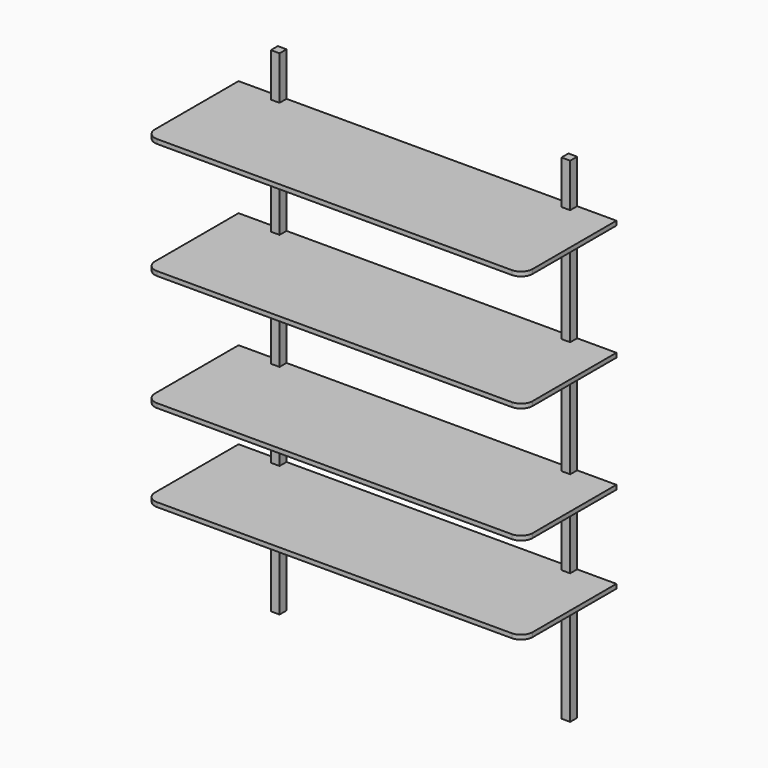
from build123d import *

# Parameters (mm, degrees)
F7_W      = 30
F7_H      = 30
F8_DEPTH  = 1700
F15_DEPTH = 15
F17_DEPTH = 15
F19_DEPTH = 15
F21_DEPTH = 15


with BuildPart() as f8:
    # F7 (on Top) → F8 (new body)
    with BuildSketch(Plane.XY):
        with Locations((-500, -15)):
            Rectangle(F7_W, F7_H)
    extrude(amount=F8_DEPTH)



with BuildPart() as f8b:
    # F7 (on Top) → F8, piece 2 (new body)
    with BuildSketch(Plane.XY):
        with Locations((500, -15)):
            Rectangle(F7_W, F7_H)
    extrude(amount=F8_DEPTH)


with BuildPart() as f8_1:
    add(f8.part)

    add(f8b.part)  # F15 merges F8b
    # F14 (on offset) → F15 (join)
    with BuildSketch(Plane.XY.offset(450)):
        with BuildLine():
            Line((485, 0), (0, 0))
            Line((0, 0), (-485, 0))
            Line((-485, 0), (-485, -30))
            Line((-485, -30), (-515, -30))
            Line((-515, -30), (-515, 0))
            Line((-515, 0), (-650, 0))
            Line((-650, 0), (-650, -360))
            ThreePointArc((-650, -360), (-638.2842712475, -388.2842712475), (-610, -400))
            Line((-610, -400), (0, -400))
            Line((0, -400), (610, -400))
            ThreePointArc((610, -400), (638.2842712475, -388.2842712475), (650, -360))
            Line((650, -360), (650, 0))
            Line((650, 0), (515, 0))
            Line((515, 0), (515, -30))
            Line((515, -30), (485, -30))
            Line((485, -30), (485, 0))
        make_face()
    extrude(amount=-F15_DEPTH)

    # F16 (on offset) → F17 (join)
    with BuildSketch(Plane.XY.offset(750)):
        with BuildLine():
            Line((0, -400), (610, -400))
            ThreePointArc((610, -400), (638.2842712475, -388.2842712475), (650, -360))
            Line((650, -360), (650, 0))
            Line((650, 0), (515, 0))
            Line((515, 0), (515, -30))
            Line((515, -30), (485, -30))
            Line((485, -30), (485, 0))
            Line((485, 0), (0, 0))
            Line((0, 0), (-485, 0))
            Line((-485, 0), (-485, -30))
            Line((-485, -30), (-515, -30))
            Line((-515, -30), (-515, 0))
            Line((-515, 0), (-650, 0))
            Line((-650, 0), (-650, -360))
            ThreePointArc((-650, -360), (-638.2842712475, -388.2842712475), (-610, -400))
            Line((-610, -400), (0, -400))
        make_face()
    extrude(amount=-F17_DEPTH)

    # F18 (on offset) → F19 (join)
    with BuildSketch(Plane.XY.offset(1150)):
        with BuildLine():
            Line((0, -400), (610, -400))
            ThreePointArc((610, -400), (638.2842712475, -388.2842712475), (650, -360))
            Line((650, -360), (650, 0))
            Line((650, 0), (515, 0))
            Line((515, 0), (515, -30))
            Line((515, -30), (485, -30))
            Line((485, -30), (485, 0))
            Line((485, 0), (0, 0))
            Line((0, 0), (-485, 0))
            Line((-485, 0), (-485, -30))
            Line((-485, -30), (-515, -30))
            Line((-515, -30), (-515, 0))
            Line((-515, 0), (-650, 0))
            Line((-650, 0), (-650, -360))
            ThreePointArc((-650, -360), (-638.2842712475, -388.2842712475), (-610, -400))
            Line((-610, -400), (0, -400))
        make_face()
    extrude(amount=-F19_DEPTH)

    # F20 (on offset) → F21 (join)
    with BuildSketch(Plane.XY.offset(1550)):
        with BuildLine():
            Line((0, -400), (610, -400))
            ThreePointArc((610, -400), (638.2842712475, -388.2842712475), (650, -360))
            Line((650, -360), (650, 0))
            Line((650, 0), (515, 0))
            Line((515, 0), (515, -30))
            Line((515, -30), (485, -30))
            Line((485, -30), (485, 0))
            Line((485, 0), (0, 0))
            Line((0, 0), (-485, 0))
            Line((-485, 0), (-485, -30))
            Line((-485, -30), (-515, -30))
            Line((-515, -30), (-515, 0))
            Line((-515, 0), (-650, 0))
            Line((-650, 0), (-650, -360))
            ThreePointArc((-650, -360), (-638.2842712475, -388.2842712475), (-610, -400))
            Line((-610, -400), (0, -400))
        make_face()
    extrude(amount=-F21_DEPTH)


solid = f8_1.part
